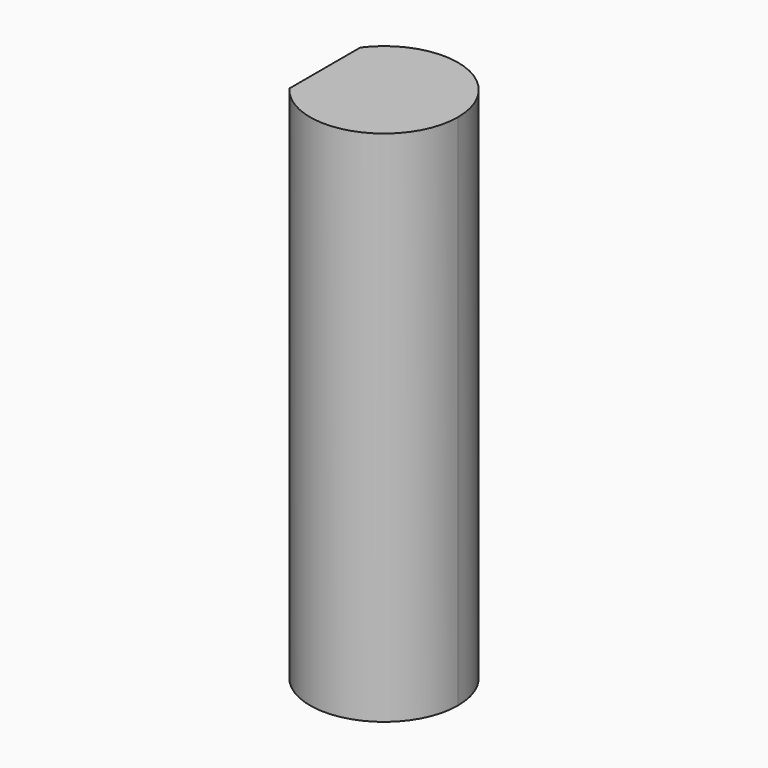
from build123d import *

# Parameters (mm, degrees)
F1_DEPTH = 17.5
F2_DEPTH = 3


with BuildPart() as f1:
    # F0 (on Top) → F1 (new body)
    with BuildSketch(Plane.XY):
        with BuildLine():
            ThreePointArc((-2, -1.5), (0.790569, -2.371708), (2.5, 0))
            ThreePointArc((2.5, 0), (0.790569, 2.371708), (-2, 1.5))
            Line((-2, 1.5), (-2, -1.5))
        make_face()
    extrude(amount=F1_DEPTH)

    # F0 (on Top) → F2 (join)
    with BuildSketch(Plane.XY):
        with BuildLine():
            Line((-2, -1.5), (-2, 1.5))
            ThreePointArc((-2, 1.5), (-2.5, 0), (-2, -1.5))
        make_face()
    extrude(amount=F2_DEPTH)


solid = f1.part
